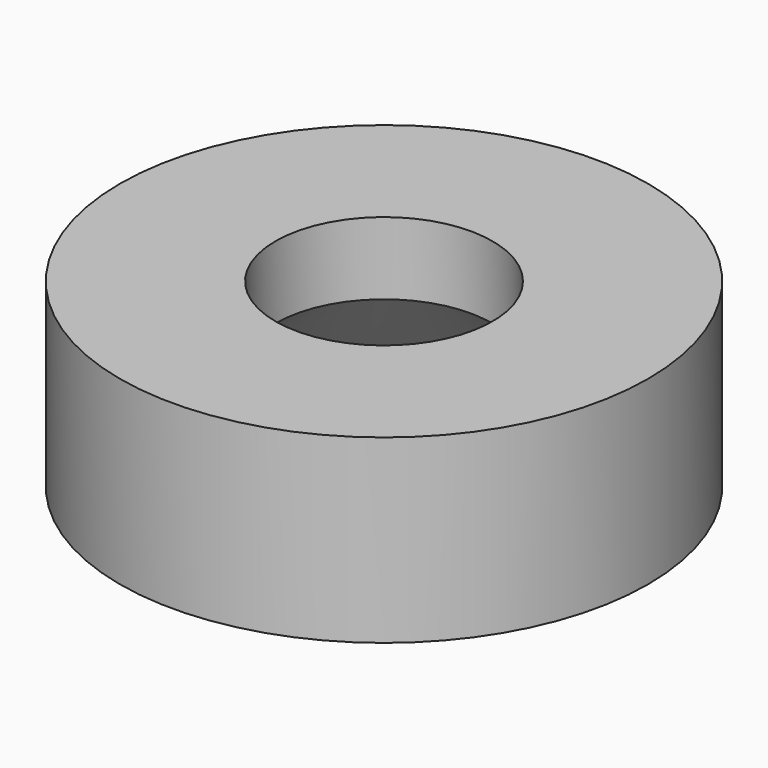
from build123d import *

# Parameters (mm, degrees)
F0_R           = 3.65
F1_DEPTH       = 2.5
F2_D           = 3
F2_CSINK_D     = 6
F2_CSINK_ANGLE = 90


with BuildPart() as f1:
    # F0 (on Top) → F1 (new body)
    with BuildSketch(Plane.XY):
        Circle(F0_R)
    extrude(amount=F1_DEPTH)

    # F2 (through all)
    with Locations(Plane(origin=(0, 0, 0), x_dir=(1, 0, 0), z_dir=(0, 0, -1))):
        with Locations((0, 0)):
            CounterSinkHole(F2_D / 2, F2_CSINK_D / 2, counter_sink_angle=F2_CSINK_ANGLE)


solid = f1.part
